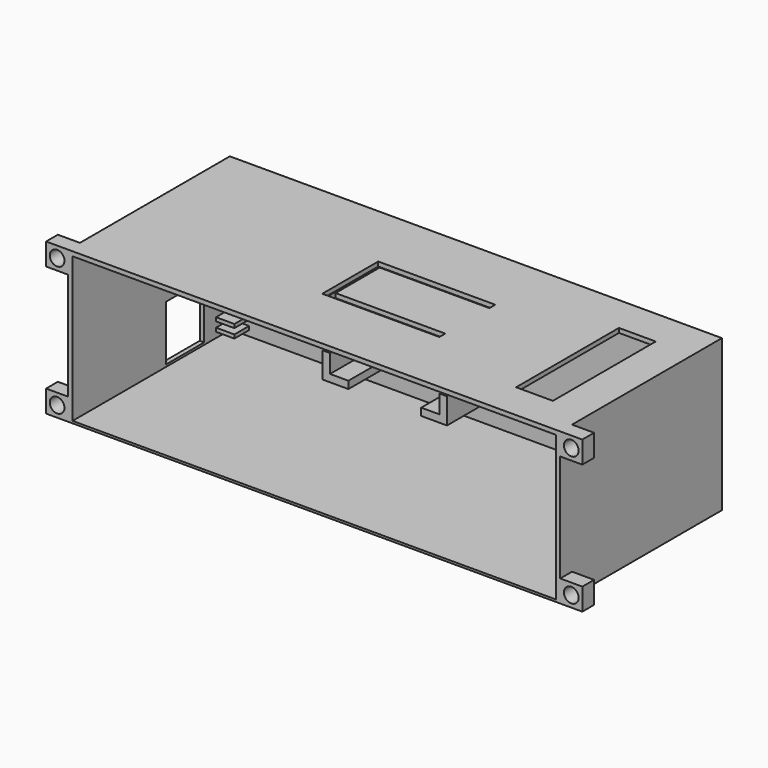
from build123d import *

# Parameters (mm, degrees)
F1_DEPTH  = 40
F2_W      = 131.4
F2_H      = 53.75
F3_DEPTH  = 0.6
F4_W      = 5
F4_H      = 1
F4_W_2    = 10
F5_DEPTH  = 5
F6_W      = 2
F6_H      = 2
F7_DEPTH  = 32
F8_W      = 13.8
F8_H      = 5.9
F9_DEPTH  = 21.875
F11_DEPTH = 54.95
F12_W     = 10
F12_H     = 34.95
F13_DEPTH = 3
F14_W     = 13
F14_H     = 15
F15_DEPTH = 25
F16_W     = 6
F16_H     = 6
F16_R     = 2
F17_DEPTH = 4


with BuildPart() as f1:
    # F0 (on Top) → F1 (new body)
    with BuildSketch(Plane.XY):
        Polygon((0, 0), (0, 53.75), (131.4, 53.75), (131.4, 0), (132.6, 0), (132.6, 53.75), (132.6, 54.95), (0, 54.95), (-1.2, 54.95), (-1.2, 0), align=None)
    extrude(amount=F1_DEPTH)

    # F4 (on face) → F5 (join)
    with BuildSketch(Plane.XZ.offset(-53.75)):
        with Locations((2.5, 2.6)):
            Rectangle(F4_W, F4_H)
        with Locations((2.5, 5.1)):
            Rectangle(F4_W, F4_H)
        with Locations((128.9, 2.6)):
            Rectangle(F4_W, F4_H)
        with Locations((128.9, 5.1)):
            Rectangle(F4_W, F4_H)
        with Locations((104, 2.6)):
            Rectangle(F4_W_2, F4_H)
        with Locations((104, 5.1)):
            Rectangle(F4_W_2, F4_H)
    extrude(amount=F5_DEPTH)

    # F6 (on face) → F7 (join)
    with BuildSketch(Plane.XZ.offset(-53.75)):
        Polygon((57.60504, 20.1), (52.60504, 20.1), (52.60504, 25.1), (50.60504, 25.1), (50.60504, 18.1), (57.60504, 18.1), align=None)
        Polygon((82.40504, 20.1), (77.40504, 20.1), (77.40504, 18.1), (84.40504, 18.1), (84.40504, 25.1), (82.40504, 25.1), align=None)
        with Locations((83.40504, 38)):
            Rectangle(F6_W, F6_H)
        with Locations((51.60504, 38)):
            Rectangle(F6_W, F6_H)
    extrude(amount=F7_DEPTH)

    # F8 (on face) → F9 (join)
    with BuildSketch(Plane.XZ.offset(-53.75)):
        with Locations((67.50504, 31.05)):
            Rectangle(F8_W, F8_H)
    extrude(amount=F9_DEPTH)

    # F10 (on face) → F11 (join, through all)
    with BuildSketch(Plane(origin=(0, 54.95, 0), x_dir=(-1, 0, 0), z_dir=(0, 1, 0))):
        Polygon((-132.6, 40), (-131.4, 40), (-127.4, 40), (1.2, 40), (1.2, 41.2), (-127.4, 41.2), (-132.6, 41.2), align=None)
    extrude(amount=-F11_DEPTH)

    # F12 (on face) → F13 (cut)
    with BuildSketch(Plane.XY.offset(41.2)):
        Polygon((85.440105, 34.875), (85.440105, 36.875), (53.60504, 36.875), (53.60504, 17.875), (85.440105, 17.875), (85.440105, 19.875), (55.60504, 19.875), (55.60504, 34.875), align=None)
        with Locations((117.6, 27.475)):
            Rectangle(F12_W, F12_H)
    extrude(amount=-F13_DEPTH, mode=Mode.SUBTRACT)

    # F14 (on face) → F15 (cut)
    with BuildSketch(Plane(origin=(-1.2, 0, 0), x_dir=(0, -1, 0), z_dir=(-1, 0, 0))):
        with Locations((-38.25, 8.7)):
            Rectangle(F14_W, F14_H)
    extrude(amount=-F15_DEPTH, mode=Mode.SUBTRACT)

    # F16 (on face) → F17 (join)
    with BuildSketch(Plane.XZ):
        with Locations((-4.2, 3)):
            Rectangle(F16_W, F16_H)
        with Locations((-4.2, 3)):
            Circle(F16_R, mode=Mode.SUBTRACT)
        with Locations((-4.2, 38.2)):
            Rectangle(F16_W, F16_H)
        with Locations((-4.2, 38.2)):
            Circle(F16_R, mode=Mode.SUBTRACT)
        with Locations((135.6, 38.2)):
            Rectangle(F16_W, F16_H)
        with Locations((135.6, 38.2)):
            Circle(F16_R, mode=Mode.SUBTRACT)
        with Locations((135.6, 3)):
            Rectangle(F16_W, F16_H)
        with Locations((135.6, 3)):
            Circle(F16_R, mode=Mode.SUBTRACT)
    extrude(amount=-F17_DEPTH)


with BuildPart() as f3:
    # F2 (on face) → F3 (new body)
    with BuildSketch(Plane(origin=(0, 0, 0), x_dir=(1, 0, 0), z_dir=(0, 0, -1))):
        with Locations((65.7, -26.875)):
            Rectangle(F2_W, F2_H)
    extrude(amount=-F3_DEPTH)


solid = Compound([f1.part, f3.part])
